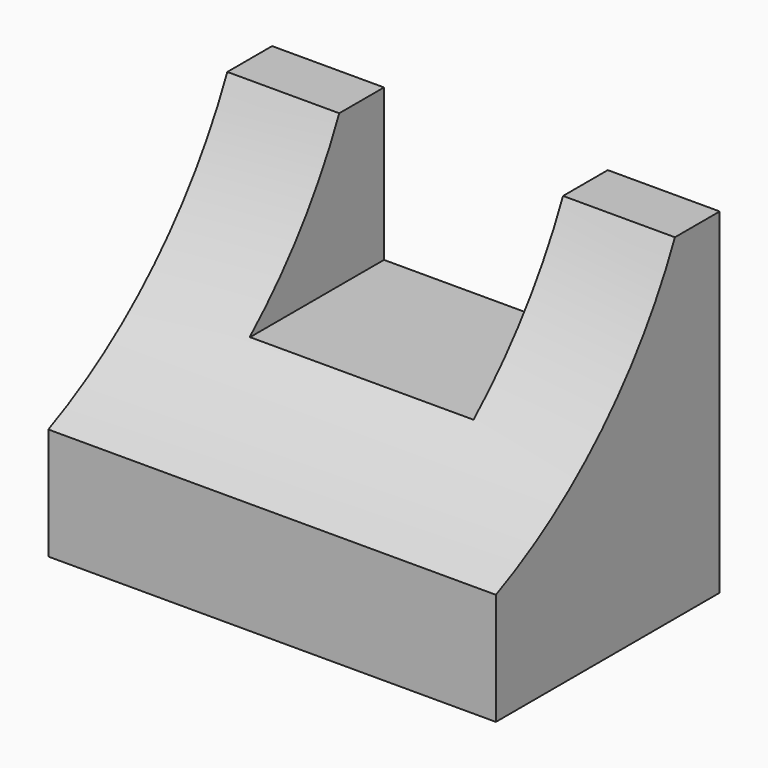
from build123d import *

# Parameters (mm, degrees)
F0_W     = 50.8
F0_H     = 38.1
F1_DEPTH = 31.75
F3_DEPTH = 50.8
F4_W     = 25.4
F4_H     = 17.231492
F5_DEPTH = 19.05


with BuildPart() as f1:
    # F0 (on Front) → F1 (new body)
    with BuildSketch(Plane.XZ):
        with Locations((25.4, 19.05)):
            Rectangle(F0_W, F0_H)
    extrude(amount=F1_DEPTH)

    # F2 (on face) → F3 (cut)
    with BuildSketch(Plane.YZ.offset(50.8)):
        with BuildLine():
            Line((-31.75, 38.1), (-31.75, 12.7))
            ThreePointArc((-31.75, 12.7), (-16.730017, 23.080017), (-6.35, 38.1))
            Line((-6.35, 38.1), (-31.75, 38.1))
        make_face()
    extrude(amount=-F3_DEPTH, mode=Mode.SUBTRACT)

    # F4 (on face) → F5 (cut)
    with BuildSketch(Plane(origin=(0, 0, 0), x_dir=(-1, 0, 0), z_dir=(0, 1, 0))):
        with Locations((-25.4, 29.484254)):
            Rectangle(F4_W, F4_H)
    extrude(amount=-F5_DEPTH, mode=Mode.SUBTRACT)


solid = f1.part
